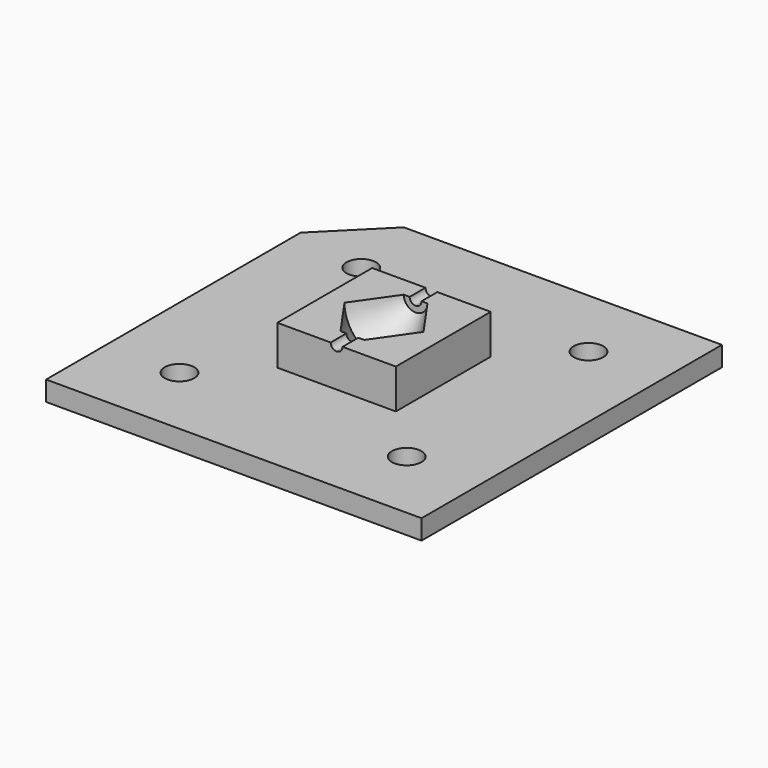
from build123d import *

# Parameters (mm, degrees)
F2_DEPTH  = 3
F0_W      = 0.3
F0_H      = 4
F3_DEPTH  = 3
F4_DEPTH  = 3
F7_DEPTH  = 3
F8_DEPTH  = 2
F9_DEPTH  = 1
F11_DEPTH = 3
F12_DEPTH = 2
F13_DEPTH = 1
F15_DEPTH = 1
F16_DEPTH = 1
F0_R      = 0.75
F17_DEPTH = 1


with BuildPart() as f2:
    # F0 (on Top) → F2 (new body)
    with BuildSketch(Plane.XY):
        Polygon((-0.6, -2), (-2, 0), (-2, -2), align=None)
    extrude(amount=F2_DEPTH)


with BuildPart() as f2b:
    # F0 (on Top) → F2, piece 2 (new body)
    with BuildSketch(Plane.XY):
        Polygon((-0.6, 2), (-2, 2), (-2, 0), align=None)
    extrude(amount=F2_DEPTH)


with BuildPart() as f2c:
    # F0 (on Top) → F2, piece 3 (new body)
    with BuildSketch(Plane.XY):
        Polygon((2, 2), (0.6, 2), (2, 0), align=None)
    extrude(amount=F2_DEPTH)


with BuildPart() as f2d:
    # F0 (on Top) → F2, piece 4 (new body)
    with BuildSketch(Plane.XY):
        Polygon((2, -2), (2, 0), (0.6, -2), align=None)
    extrude(amount=F2_DEPTH)


with BuildPart() as f3:
    # F0 (on Top) → F3 (new body)
    with BuildSketch(Plane.XY):
        Polygon((-0.6, -2), (-0.6, 2), (-2, 0), align=None)
        with Locations((-0.45, 0)):
            Rectangle(F0_W, F0_H)
        with Locations((-0.15, 0)):
            Rectangle(F0_W, F0_H)
    extrude(amount=F3_DEPTH)


with BuildPart() as f4:
    # F0 (on Top) → F4 (new body)
    with BuildSketch(Plane.XY):
        with Locations((0.45, 0)):
            Rectangle(F0_W, F0_H)
        Polygon((2, 0), (0.6, 2), (0.6, -2), align=None)
        with Locations((0.15, 0)):
            Rectangle(F0_W, F0_H)
    extrude(amount=F4_DEPTH)


with BuildPart() as f5_tool:
    # F4_face (on face) → F5 (revolve)
    with BuildSketch(Plane(origin=(0.7128205128, 0, 3), x_dir=(1, 0, 0), z_dir=(0, 0, 1))):
        Polygon((-0.1128205128, -2), (1.2871794872, 0), (-0.1128205128, 2), (-0.7128205128, 2), (-0.7128205128, -2), align=None)
    revolve(axis=Axis((0, 0, 3), (0, -1, 0)))


with BuildPart() as f3_1:
    add(f3.part)

    # F5: cut by f5_tool
    add(f5_tool.part, mode=Mode.SUBTRACT)


with BuildPart() as f4_1:
    add(f4.part)

    # F5: cut by f5_tool
    add(f5_tool.part, mode=Mode.SUBTRACT)


with BuildPart() as f2b_1:
    add(f2b.part)

    # F6: union F2, F3, F4, F2c, F2d
    add(f2.part)
    add(f3_1.part)
    add(f4_1.part)
    add(f2c.part)
    add(f2d.part)


with BuildPart() as f7:
    # F1 (on Front) → F7 (new body)
    with BuildSketch(Plane.XZ):
        with BuildLine():
            ThreePointArc((-0.6, 3), (-0.4242640687, 2.5757359313), (0, 2.4))
            Line((0, 2.4), (0, 2.7))
            ThreePointArc((0, 2.7), (-0.2121320344, 2.7878679656), (-0.3, 3))
            Line((-0.3, 3), (-0.6, 3))
        make_face()
        with BuildLine():
            Line((0, 2.7), (0, 2.4))
            ThreePointArc((0, 2.4), (0.4242640687, 2.5757359313), (0.6, 3))
            Line((0.6, 3), (0.3, 3))
            ThreePointArc((0.3, 3), (0.2121320344, 2.7878679656), (0, 2.7))
        make_face()
    extrude(amount=F7_DEPTH)

    # F1 (on Front) → F8 (cut)
    with BuildSketch(Plane.XZ):
        with BuildLine():
            ThreePointArc((-0.6, 3), (-0.4242640687, 2.5757359313), (0, 2.4))
            Line((0, 2.4), (0, 2.7))
            ThreePointArc((0, 2.7), (-0.2121320344, 2.7878679656), (-0.3, 3))
            Line((-0.3, 3), (-0.6, 3))
        make_face()
        with BuildLine():
            Line((0, 2.7), (0, 2.4))
            ThreePointArc((0, 2.4), (0.4242640687, 2.5757359313), (0.6, 3))
            Line((0.6, 3), (0.3, 3))
            ThreePointArc((0.3, 3), (0.2121320344, 2.7878679656), (0, 2.7))
        make_face()
    extrude(amount=F8_DEPTH, mode=Mode.SUBTRACT)


with BuildPart() as f9:
    # F9 (new): a face of the model
    f9_faces = [f2b_1.part.faces().sort_by_distance(p)[0] for p in [
        (0, -2, 1.4384118942),
    ]]
    extrude(f9_faces, amount=F9_DEPTH)


with BuildPart() as f7_1:
    add(f7.part)

    # F10: union F2b, F9
    add(f2b_1.part)
    add(f9.part)


with BuildPart() as f11:
    # F1 (on Front) → F11 (new body)
    with BuildSketch(Plane.XZ):
        with BuildLine():
            Line((0, 2.7), (0, 2.4))
            ThreePointArc((0, 2.4), (0.4242640687, 2.5757359313), (0.6, 3))
            Line((0.6, 3), (0.3, 3))
            ThreePointArc((0.3, 3), (0.2121320344, 2.7878679656), (0, 2.7))
        make_face()
        with BuildLine():
            ThreePointArc((-0.6, 3), (-0.4242640687, 2.5757359313), (0, 2.4))
            Line((0, 2.4), (0, 2.7))
            ThreePointArc((0, 2.7), (-0.2121320344, 2.7878679656), (-0.3, 3))
            Line((-0.3, 3), (-0.6, 3))
        make_face()
    extrude(amount=-F11_DEPTH)

    # F1 (on Front) → F12 (cut)
    with BuildSketch(Plane.XZ):
        with BuildLine():
            Line((0, 2.7), (0, 2.4))
            ThreePointArc((0, 2.4), (0.4242640687, 2.5757359313), (0.6, 3))
            Line((0.6, 3), (0.3, 3))
            ThreePointArc((0.3, 3), (0.2121320344, 2.7878679656), (0, 2.7))
        make_face()
        with BuildLine():
            ThreePointArc((-0.6, 3), (-0.4242640687, 2.5757359313), (0, 2.4))
            Line((0, 2.4), (0, 2.7))
            ThreePointArc((0, 2.7), (-0.2121320344, 2.7878679656), (-0.3, 3))
            Line((-0.3, 3), (-0.6, 3))
        make_face()
    extrude(amount=-F12_DEPTH, mode=Mode.SUBTRACT)


with BuildPart() as f13:
    # F13 (new): a face of the model
    f13_faces = [f7_1.part.faces().sort_by_distance(p)[0] for p in [
        (0, 2, 1.4384118942),
    ]]
    extrude(f13_faces, amount=F13_DEPTH)


with BuildPart() as f11_1:
    add(f11.part)

    # F14: union F13, F7
    add(f13.part)
    add(f7_1.part)

    # F15 (add): a face of the model
    f15_faces = [f11_1.faces().sort_by_distance(p)[0] for p in [
        (2, 0, 1.5),
    ]]
    extrude(f15_faces, amount=F15_DEPTH)

    # F16 (add): a face of the model
    f16_faces = [f11_1.faces().sort_by_distance(p)[0] for p in [
        (-2, 0, 1.5),
    ]]
    extrude(f16_faces, amount=F16_DEPTH)

    # F0 (on Top) → F17 (join)
    with BuildSketch(Plane.XY):
        Polygon((9.5, 9.5), (-6.5961940777, 9.5), (-9.5, 6.5961940777), (-9.5, -9.5), (9.5, -9.5), align=None)
        with Locations((-5.75, -5.75)):
            Circle(F0_R, mode=Mode.SUBTRACT)
        with Locations((5.75, -5.75)):
            Circle(F0_R, mode=Mode.SUBTRACT)
        with Locations((-5.75, 5.75)):
            Circle(F0_R, mode=Mode.SUBTRACT)
        Polygon((-2, 0), (-2, 2), (-0.6, 2), (-0.3, 2), (0, 2), (0.3, 2), (0.6, 2), (2, 2), (2, 0), (2, -2), (0.6, -2), (0.3, -2), (0, -2), (-0.3, -2), (-0.6, -2), (-2, -2), align=None, mode=Mode.SUBTRACT)
        with Locations((5.75, 5.75)):
            Circle(F0_R, mode=Mode.SUBTRACT)
    extrude(amount=F17_DEPTH)


solid = f11_1.part
